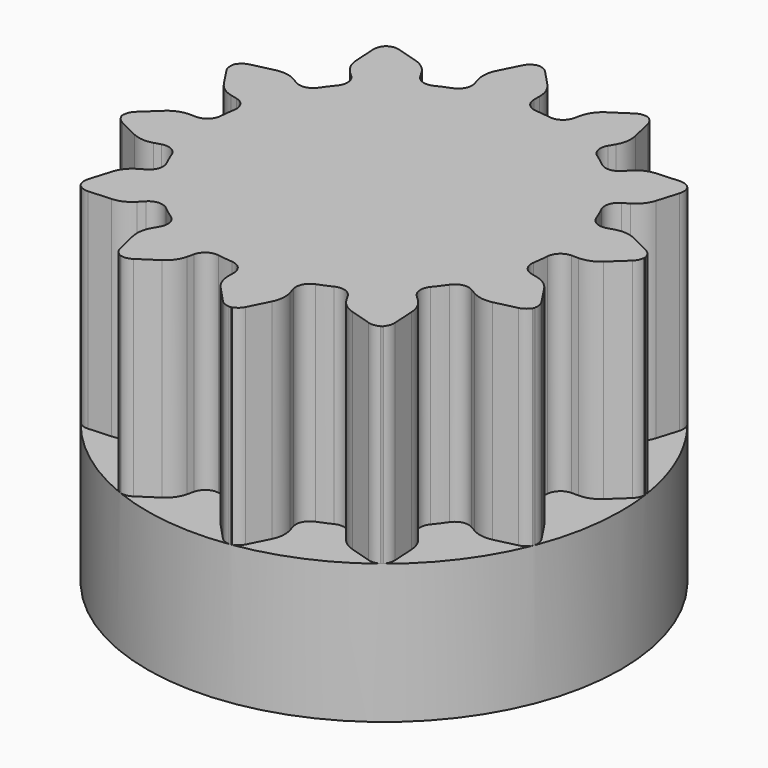
from build123d import *

# Parameters (mm, degrees)
F1_DEPTH = 15
F2_R     = 17
F2_R_2   = 3
F3_DEPTH = 10
F4_R     = 1.75
F5_DEPTH = 17.001
F6_W     = 5
F6_H     = 2
F7_DEPTH = 9


with BuildPart() as f1:
    # F0 (on Top) → F1 (new body)
    with BuildSketch(Plane.XY):
        with BuildLine():
            Line((0, 13.4629120178), (0, 13.9598396759))
            ThreePointArc((0, 13.9598396759), (-0.1399077376, 14.6947252284), (-0.5400567752, 15.3267946058))
            Line((-0.5400567752, 15.3267946058), (-1.6444481838, 16.5063131979))
            ThreePointArc((-1.6444481838, 16.5063131979), (-2.005522371, 16.7523058453), (-2.437014263, 16.8208747766))
            ThreePointArc((-2.437014263, 16.8208747766), (-2.8313041522, 16.6326662899), (-3.1077182557, 16.2943141144))
            Line((-3.1077182557, 16.2943141144), (-3.8319481854, 14.8498642187))
            ThreePointArc((-3.8319481854, 14.8498642187), (-4.0362605194, 14.1302202648), (-3.961852443, 13.3858450983))
            Line((-3.961852443, 13.3858450983), (-3.8208225958, 12.9093498942))
            ThreePointArc((-3.8208225958, 12.9093498942), (-3.8839051545, 12.1810886957), (-4.4256528088, 11.6903206635))
            ThreePointArc((-4.4256528088, 11.6903206635), (-4.9330299268, 11.4854349391), (-5.430954264, 11.2585405707))
            ThreePointArc((-5.430954264, 11.2585405707), (-6.1598714552, 11.203554111), (-6.7314560089, 11.6592238164))
            Line((-6.7314560089, 11.6592238164), (-6.9799198379, 12.0895757921))
            ThreePointArc((-6.9799198379, 12.0895757921), (-7.4685262691, 12.6560514806), (-8.1311001898, 13.0033650996))
            Line((-8.1311001898, 13.0033650996), (-9.6772905013, 13.4726624603))
            ThreePointArc((-9.6772905013, 13.4726624603), (-10.0698952013, 13.5105348139), (-10.4466051139, 13.3936485131))
            Line((-10.4466051139, 13.3936485131), (0, 0))
            Line((0, 0), (16.7978359788, 2.52073111))
            ThreePointArc((16.7978359788, 2.52073111), (16.605115483, 2.8648700007), (16.2943141144, 3.1077182557))
            Line((16.2943141144, 3.1077182557), (14.8498642187, 3.8319481854))
            ThreePointArc((14.8498642187, 3.8319481854), (14.1302202648, 4.0362605194), (13.3858450983, 3.961852443))
            Line((13.3858450983, 3.961852443), (12.9093498942, 3.8208225958))
            ThreePointArc((12.9093498942, 3.8208225958), (12.1810886957, 3.8839051545), (11.6903206635, 4.4256528088))
            ThreePointArc((11.6903206635, 4.4256528088), (11.4854349391, 4.9330299268), (11.2585405707, 5.430954264))
            ThreePointArc((11.2585405707, 5.430954264), (11.203554111, 6.1598714552), (11.6592238164, 6.7314560089))
            Line((11.6592238164, 6.7314560089), (12.0895757921, 6.9799198379))
            ThreePointArc((12.0895757921, 6.9799198379), (12.6560514806, 7.4685262691), (13.0033650996, 8.1311001898))
            Line((13.0033650996, 8.1311001898), (13.4726624603, 9.6772905013))
            ThreePointArc((13.4726624603, 9.6772905013), (13.5051612485, 10.1129862438), (13.3487977389, 10.5209536495))
            ThreePointArc((13.3487977389, 10.5209536495), (12.9886594636, 10.7683144666), (12.5574308325, 10.8385200144))
            Line((12.5574308325, 10.8385200144), (10.9443855635, 10.7434965839))
            ThreePointArc((10.9443855635, 10.7434965839), (10.2189994507, 10.5606142785), (9.6115556848, 10.1239874108))
            Line((9.6115556848, 10.1239874108), (9.2694136568, 9.7636043784))
            ThreePointArc((9.2694136568, 9.7636043784), (8.607179679, 9.4541048775), (7.9112882686, 9.6778880925))
            ThreePointArc((7.9112882686, 9.6778880925), (7.4801634674, 10.0148467038), (7.0347050118, 10.3326146448))
            ThreePointArc((7.0347050118, 10.3326146448), (6.6226267452, 10.9363822198), (6.7314560089, 11.6592238164))
            Line((6.7314560089, 11.6592238164), (6.9799198379, 12.0895757921))
            ThreePointArc((6.9799198379, 12.0895757921), (7.2261989593, 12.7959592182), (7.1956944161, 13.5434218749))
            Line((7.1956944161, 13.5434218749), (6.8290226966, 15.1171106441))
            ThreePointArc((6.8290226966, 15.1171106441), (6.6393196015, 15.5106836195), (6.2999211272, 15.7858120019))
            ThreePointArc((6.2999211272, 15.7858120019), (5.8643518233, 15.8199636158), (5.4557941, 15.6651490882))
            Line((5.4557941, 15.6651490882), (4.1063676348, 14.7763337488))
            ThreePointArc((4.1063676348, 14.7763337488), (3.5696059863, 14.2552599701), (3.2618576875, 13.5734081278))
            Line((3.2618576875, 13.5734081278), (3.1457455158, 13.0902362526))
            ThreePointArc((3.1457455158, 13.0902362526), (2.7269838182, 12.4910848335), (2.012432571, 12.3369410774))
            ThreePointArc((2.012432571, 12.3369410774), (1.4705882353, 12.4131933942), (0.9259259259, 12.4656592758))
            ThreePointArc((0.9259259259, 12.4656592758), (0.2671718912, 12.7824982004), (0, 13.4629120178))
        make_face()
        with BuildLine():
            Line((0, 0), (-10.4466051139, 13.3936485131))
            ThreePointArc((-10.4466051139, 13.3936485131), (-10.4842664055, 13.3720304589), (-10.5209536495, 13.3487977389))
            ThreePointArc((-10.5209536495, 13.3487977389), (-10.5521155946, 13.3185546187), (-10.5819351668, 13.2869871312))
            Line((-10.5819351668, 13.2869871312), (0, 0))
        make_face()
        with BuildLine():
            ThreePointArc((-10.5209536495, 13.3487977389), (-10.4842664055, 13.3720304589), (-10.4466051139, 13.3936485131))
            Line((-10.4466051139, 13.3936485131), (-10.4552663331, 13.4047531087))
            ThreePointArc((-10.4552663331, 13.4047531087), (-10.4887138155, 13.3774842671), (-10.5209536495, 13.3487977389))
        make_face()
        with BuildLine():
            ThreePointArc((-10.5819351668, 13.2869871312), (-10.5521155946, 13.3185546187), (-10.5209536495, 13.3487977389))
            ThreePointArc((-10.5209536495, 13.3487977389), (-10.5563792501, 13.3241532544), (-10.5907085873, 13.2980032945))
            Line((-10.5907085873, 13.2980032945), (-10.5819351668, 13.2869871312))
        make_face()
        with BuildLine():
            Line((-15.7438496685, 6.3759373047), (0, 0))
            Line((0, 0), (-10.5819351668, 13.2869871312))
            ThreePointArc((-10.5819351668, 13.2869871312), (-10.7836079407, 12.9480168406), (-10.8385200144, 12.5574308325))
            Line((-10.8385200144, 12.5574308325), (-10.7434965839, 10.9443855635))
            ThreePointArc((-10.7434965839, 10.9443855635), (-10.5606142785, 10.2189994507), (-10.1239874108, 9.6115556848))
            Line((-10.1239874108, 9.6115556848), (-9.7636043784, 9.2694136568))
            ThreePointArc((-9.7636043784, 9.2694136568), (-9.4541048775, 8.607179679), (-9.6778880925, 7.9112882686))
            ThreePointArc((-9.6778880925, 7.9112882686), (-10.0148467038, 7.4801634674), (-10.3326146448, 7.0347050118))
            ThreePointArc((-10.3326146448, 7.0347050118), (-10.9363822198, 6.6226267452), (-11.6592238164, 6.7314560089))
            Line((-11.6592238164, 6.7314560089), (-12.0895757921, 6.9799198379))
            ThreePointArc((-12.0895757921, 6.9799198379), (-12.7959592182, 7.2261989593), (-13.5434218749, 7.1956944161))
            Line((-13.5434218749, 7.1956944161), (-15.1171106441, 6.8290226966))
            ThreePointArc((-15.1171106441, 6.8290226966), (-15.4760524647, 6.6655187669), (-15.7438496685, 6.3759373047))
        make_face()
        with BuildLine():
            Line((-16.8225424186, -2.3502011554), (0, 0))
            Line((0, 0), (-15.8077182412, 6.215900812))
            ThreePointArc((-15.8077182412, 6.215900812), (-15.8128868414, 5.8215075423), (-15.6651490882, 5.4557941))
            Line((-15.6651490882, 5.4557941), (-14.7763337488, 4.1063676348))
            ThreePointArc((-14.7763337488, 4.1063676348), (-14.2552599701, 3.5696059863), (-13.5734081278, 3.2618576875))
            Line((-13.5734081278, 3.2618576875), (-13.0902362526, 3.1457455158))
            ThreePointArc((-13.0902362526, 3.1457455158), (-12.4910848335, 2.7269838182), (-12.3369410774, 2.012432571))
            ThreePointArc((-12.3369410774, 2.012432571), (-12.4131933942, 1.4705882353), (-12.4656592758, 0.9259259259))
            ThreePointArc((-12.4656592758, 0.9259259259), (-12.7824982004, 0.2671718912), (-13.4629120178, 0))
            Line((-13.4629120178, 0), (-13.9598396759, 0))
            ThreePointArc((-13.9598396759, 0), (-14.6947252284, -0.1399077376), (-15.3267946058, -0.5400567752))
            Line((-15.3267946058, -0.5400567752), (-16.5063131979, -1.6444481838))
            ThreePointArc((-16.5063131979, -1.6444481838), (-16.7354139682, -1.9655176508), (-16.8225424186, -2.3502011554))
        make_face()
        with BuildLine():
            Line((-13.3936485131, -10.4466051139), (0, 0))
            Line((0, 0), (-16.7978359788, -2.52073111))
            ThreePointArc((-16.7978359788, -2.52073111), (-16.605115483, -2.8648700007), (-16.2943141144, -3.1077182557))
            Line((-16.2943141144, -3.1077182557), (-14.8498642187, -3.8319481854))
            ThreePointArc((-14.8498642187, -3.8319481854), (-14.1302202648, -4.0362605194), (-13.3858450983, -3.961852443))
            Line((-13.3858450983, -3.961852443), (-12.9093498942, -3.8208225958))
            ThreePointArc((-12.9093498942, -3.8208225958), (-12.1810886957, -3.8839051545), (-11.6903206635, -4.4256528088))
            ThreePointArc((-11.6903206635, -4.4256528088), (-11.4854349391, -4.9330299268), (-11.2585405707, -5.430954264))
            ThreePointArc((-11.2585405707, -5.430954264), (-11.203554111, -6.1598714552), (-11.6592238164, -6.7314560089))
            Line((-11.6592238164, -6.7314560089), (-12.0895757921, -6.9799198379))
            ThreePointArc((-12.0895757921, -6.9799198379), (-12.6560514806, -7.4685262691), (-13.0033650996, -8.1311001898))
            Line((-13.0033650996, -8.1311001898), (-13.4726624603, -9.6772905013))
            ThreePointArc((-13.4726624603, -9.6772905013), (-13.5105348139, -10.0698952013), (-13.3936485131, -10.4466051139))
        make_face()
        with BuildLine():
            Line((-15.8077182412, 6.215900812), (0, 0))
            Line((0, 0), (-15.7438496685, 6.3759373047))
            ThreePointArc((-15.7438496685, 6.3759373047), (-15.7656562766, 6.3383848748), (-15.7858120019, 6.2999211272))
            ThreePointArc((-15.7858120019, 6.2999211272), (-15.797677478, 6.2581488442), (-15.8077182412, 6.215900812))
        make_face()
        with BuildLine():
            Line((-6.3759373047, -15.7438496685), (0, 0))
            Line((0, 0), (-13.2869871312, -10.5819351668))
            ThreePointArc((-13.2869871312, -10.5819351668), (-12.9480168406, -10.7836079407), (-12.5574308325, -10.8385200144))
            Line((-12.5574308325, -10.8385200144), (-10.9443855635, -10.7434965839))
            ThreePointArc((-10.9443855635, -10.7434965839), (-10.2189994507, -10.5606142785), (-9.6115556848, -10.1239874108))
            Line((-9.6115556848, -10.1239874108), (-9.2694136568, -9.7636043784))
            ThreePointArc((-9.2694136568, -9.7636043784), (-8.607179679, -9.4541048775), (-7.9112882686, -9.6778880925))
            ThreePointArc((-7.9112882686, -9.6778880925), (-7.4801634674, -10.0148467038), (-7.0347050118, -10.3326146448))
            ThreePointArc((-7.0347050118, -10.3326146448), (-6.6226267452, -10.9363822198), (-6.7314560089, -11.6592238164))
            Line((-6.7314560089, -11.6592238164), (-6.9799198379, -12.0895757921))
            ThreePointArc((-6.9799198379, -12.0895757921), (-7.2261989593, -12.7959592182), (-7.1956944161, -13.5434218749))
            Line((-7.1956944161, -13.5434218749), (-6.8290226966, -15.1171106441))
            ThreePointArc((-6.8290226966, -15.1171106441), (-6.6655187669, -15.4760524647), (-6.3759373047, -15.7438496685))
        make_face()
        with BuildLine():
            Line((-16.7978359788, -2.52073111), (0, 0))
            Line((0, 0), (-16.8225424186, -2.3502011554))
            ThreePointArc((-16.8225424186, -2.3502011554), (-16.8226512803, -2.3936258177), (-16.8208747766, -2.437014263))
            ThreePointArc((-16.8208747766, -2.437014263), (-16.8102644388, -2.4791228593), (-16.7978359788, -2.52073111))
        make_face()
        with BuildLine():
            Line((2.3502011554, -16.8225424186), (0, 0))
            Line((0, 0), (-6.215900812, -15.8077182412))
            ThreePointArc((-6.215900812, -15.8077182412), (-5.8215075423, -15.8128868414), (-5.4557941, -15.6651490882))
            Line((-5.4557941, -15.6651490882), (-4.1063676348, -14.7763337488))
            ThreePointArc((-4.1063676348, -14.7763337488), (-3.5696059863, -14.2552599701), (-3.2618576875, -13.5734081278))
            Line((-3.2618576875, -13.5734081278), (-3.1457455158, -13.0902362526))
            ThreePointArc((-3.1457455158, -13.0902362526), (-2.7269838182, -12.4910848335), (-2.012432571, -12.3369410774))
            ThreePointArc((-2.012432571, -12.3369410774), (-1.4705882353, -12.4131933942), (-0.9259259259, -12.4656592758))
            ThreePointArc((-0.9259259259, -12.4656592758), (-0.2671718912, -12.7824982004), (0, -13.4629120178))
            Line((0, -13.4629120178), (0, -13.9598396759))
            ThreePointArc((0, -13.9598396759), (0.1399077376, -14.6947252284), (0.5400567752, -15.3267946058))
            Line((0.5400567752, -15.3267946058), (1.6444481838, -16.5063131979))
            ThreePointArc((1.6444481838, -16.5063131979), (1.9655176508, -16.7354139682), (2.3502011554, -16.8225424186))
        make_face()
        with BuildLine():
            Line((-13.2869871312, -10.5819351668), (0, 0))
            Line((0, 0), (-13.3936485131, -10.4466051139))
            ThreePointArc((-13.3936485131, -10.4466051139), (-13.3720304589, -10.4842664055), (-13.3487977389, -10.5209536495))
            ThreePointArc((-13.3487977389, -10.5209536495), (-13.3185546187, -10.5521155946), (-13.2869871312, -10.5819351668))
        make_face()
        with BuildLine():
            Line((10.4466051139, -13.3936485131), (0, 0))
            Line((0, 0), (2.52073111, -16.7978359788))
            ThreePointArc((2.52073111, -16.7978359788), (2.8648700007, -16.605115483), (3.1077182557, -16.2943141144))
            Line((3.1077182557, -16.2943141144), (3.8319481854, -14.8498642187))
            ThreePointArc((3.8319481854, -14.8498642187), (4.0362605194, -14.1302202648), (3.961852443, -13.3858450983))
            Line((3.961852443, -13.3858450983), (3.8208225958, -12.9093498942))
            ThreePointArc((3.8208225958, -12.9093498942), (3.8839051545, -12.1810886957), (4.4256528088, -11.6903206635))
            ThreePointArc((4.4256528088, -11.6903206635), (4.9330299268, -11.4854349391), (5.430954264, -11.2585405707))
            ThreePointArc((5.430954264, -11.2585405707), (6.1598714552, -11.203554111), (6.7314560089, -11.6592238164))
            Line((6.7314560089, -11.6592238164), (6.9799198379, -12.0895757921))
            ThreePointArc((6.9799198379, -12.0895757921), (7.4685262691, -12.6560514806), (8.1311001898, -13.0033650996))
            Line((8.1311001898, -13.0033650996), (9.6772905013, -13.4726624603))
            ThreePointArc((9.6772905013, -13.4726624603), (10.0698952013, -13.5105348139), (10.4466051139, -13.3936485131))
        make_face()
        with BuildLine():
            Line((-6.215900812, -15.8077182412), (0, 0))
            Line((0, 0), (-6.3759373047, -15.7438496685))
            ThreePointArc((-6.3759373047, -15.7438496685), (-6.3383848748, -15.7656562766), (-6.2999211272, -15.7858120019))
            ThreePointArc((-6.2999211272, -15.7858120019), (-6.2581488442, -15.797677478), (-6.215900812, -15.8077182412))
        make_face()
        with BuildLine():
            Line((15.7438496685, -6.3759373047), (0, 0))
            Line((0, 0), (10.5819351668, -13.2869871312))
            ThreePointArc((10.5819351668, -13.2869871312), (10.7836079407, -12.9480168406), (10.8385200144, -12.5574308325))
            Line((10.8385200144, -12.5574308325), (10.7434965839, -10.9443855635))
            ThreePointArc((10.7434965839, -10.9443855635), (10.5606142785, -10.2189994507), (10.1239874108, -9.6115556848))
            Line((10.1239874108, -9.6115556848), (9.7636043784, -9.2694136568))
            ThreePointArc((9.7636043784, -9.2694136568), (9.4541048775, -8.607179679), (9.6778880925, -7.9112882686))
            ThreePointArc((9.6778880925, -7.9112882686), (10.0148467038, -7.4801634674), (10.3326146448, -7.0347050118))
            ThreePointArc((10.3326146448, -7.0347050118), (10.9363822198, -6.6226267452), (11.6592238164, -6.7314560089))
            Line((11.6592238164, -6.7314560089), (12.0895757921, -6.9799198379))
            ThreePointArc((12.0895757921, -6.9799198379), (12.7959592182, -7.2261989593), (13.5434218749, -7.1956944161))
            Line((13.5434218749, -7.1956944161), (15.1171106441, -6.8290226966))
            ThreePointArc((15.1171106441, -6.8290226966), (15.4760524647, -6.6655187669), (15.7438496685, -6.3759373047))
        make_face()
        with BuildLine():
            Line((2.52073111, -16.7978359788), (0, 0))
            Line((0, 0), (2.3502011554, -16.8225424186))
            ThreePointArc((2.3502011554, -16.8225424186), (2.3936258177, -16.8226512803), (2.437014263, -16.8208747766))
            ThreePointArc((2.437014263, -16.8208747766), (2.4791228593, -16.8102644388), (2.52073111, -16.7978359788))
        make_face()
        with BuildLine():
            Line((16.8225424186, 2.3502011554), (0, 0))
            Line((0, 0), (15.8077182412, -6.215900812))
            ThreePointArc((15.8077182412, -6.215900812), (15.8128868414, -5.8215075423), (15.6651490882, -5.4557941))
            Line((15.6651490882, -5.4557941), (14.7763337488, -4.1063676348))
            ThreePointArc((14.7763337488, -4.1063676348), (14.2552599701, -3.5696059863), (13.5734081278, -3.2618576875))
            Line((13.5734081278, -3.2618576875), (13.0902362526, -3.1457455158))
            ThreePointArc((13.0902362526, -3.1457455158), (12.4910848335, -2.7269838182), (12.3369410774, -2.012432571))
            ThreePointArc((12.3369410774, -2.012432571), (12.4131933942, -1.4705882353), (12.4656592758, -0.9259259259))
            ThreePointArc((12.4656592758, -0.9259259259), (12.7824982004, -0.2671718912), (13.4629120178, 0))
            Line((13.4629120178, 0), (13.9598396759, 0))
            ThreePointArc((13.9598396759, 0), (14.6947252284, 0.1399077376), (15.3267946058, 0.5400567752))
            Line((15.3267946058, 0.5400567752), (16.5063131979, 1.6444481838))
            ThreePointArc((16.5063131979, 1.6444481838), (16.7354139682, 1.9655176508), (16.8225424186, 2.3502011554))
        make_face()
        with BuildLine():
            Line((10.5819351668, -13.2869871312), (0, 0))
            Line((0, 0), (10.4466051139, -13.3936485131))
            ThreePointArc((10.4466051139, -13.3936485131), (10.4842664055, -13.3720304589), (10.5209536495, -13.3487977389))
            ThreePointArc((10.5209536495, -13.3487977389), (10.5521155946, -13.3185546187), (10.5819351668, -13.2869871312))
        make_face()
        with BuildLine():
            Line((15.8077182412, -6.215900812), (0, 0))
            Line((0, 0), (15.7438496685, -6.3759373047))
            ThreePointArc((15.7438496685, -6.3759373047), (15.7656562766, -6.3383848748), (15.7858120019, -6.2999211272))
            ThreePointArc((15.7858120019, -6.2999211272), (15.797677478, -6.2581488442), (15.8077182412, -6.215900812))
        make_face()
        with BuildLine():
            Line((16.7978359788, 2.52073111), (0, 0))
            Line((0, 0), (16.8225424186, 2.3502011554))
            ThreePointArc((16.8225424186, 2.3502011554), (16.8226512803, 2.3936258177), (16.8208747766, 2.437014263))
            ThreePointArc((16.8208747766, 2.437014263), (16.8102644388, 2.4791228593), (16.7978359788, 2.52073111))
        make_face()
        with BuildLine():
            Line((-15.8208243279, 6.221054379), (-15.8077182412, 6.215900812))
            ThreePointArc((-15.8077182412, 6.215900812), (-15.797677478, 6.2581488442), (-15.7858120019, 6.2999211272))
            ThreePointArc((-15.7858120019, 6.2999211272), (-15.8041692298, 6.2608655772), (-15.8208243279, 6.221054379))
        make_face()
        with BuildLine():
            Line((-16.8117629662, -2.5228210334), (-16.7978359788, -2.52073111))
            ThreePointArc((-16.7978359788, -2.52073111), (-16.8102644388, -2.4791228593), (-16.8208747766, -2.437014263))
            ThreePointArc((-16.8208747766, -2.437014263), (-16.8172448273, -2.4800159754), (-16.8117629662, -2.5228210334))
        make_face()
        with BuildLine():
            ThreePointArc((-15.7858120019, 6.2999211272), (-15.7656562766, 6.3383848748), (-15.7438496685, 6.3759373047))
            Line((-15.7438496685, 6.3759373047), (-15.7569028021, 6.381223557))
            ThreePointArc((-15.7569028021, 6.381223557), (-15.7722347508, 6.3408843063), (-15.7858120019, 6.2999211272))
        make_face()
        with BuildLine():
            Line((-13.2980032945, -10.5907085873), (-13.2869871312, -10.5819351668))
            ThreePointArc((-13.2869871312, -10.5819351668), (-13.3185546187, -10.5521155946), (-13.3487977389, -10.5209536495))
            ThreePointArc((-13.3487977389, -10.5209536495), (-13.3241532544, -10.5563792501), (-13.2980032945, -10.5907085873))
        make_face()
        with BuildLine():
            ThreePointArc((-16.8208747766, -2.437014263), (-16.8226512803, -2.3936258177), (-16.8225424186, -2.3502011554))
            Line((-16.8225424186, -2.3502011554), (-16.8364898901, -2.3521496934))
            ThreePointArc((-16.8364898901, -2.3521496934), (-16.8295981218, -2.3947504836), (-16.8208747766, -2.437014263))
        make_face()
        with BuildLine():
            Line((-6.221054379, -15.8208243279), (-6.215900812, -15.8077182412))
            ThreePointArc((-6.215900812, -15.8077182412), (-6.2581488442, -15.797677478), (-6.2999211272, -15.7858120019))
            ThreePointArc((-6.2999211272, -15.7858120019), (-6.2608655772, -15.8041692298), (-6.221054379, -15.8208243279))
        make_face()
        with BuildLine():
            ThreePointArc((-13.3487977389, -10.5209536495), (-13.3720304589, -10.4842664055), (-13.3936485131, -10.4466051139))
            Line((-13.3936485131, -10.4466051139), (-13.4047531087, -10.4552663331))
            ThreePointArc((-13.4047531087, -10.4552663331), (-13.3774842671, -10.4887138155), (-13.3487977389, -10.5209536495))
        make_face()
        with BuildLine():
            Line((2.5228210334, -16.8117629662), (2.52073111, -16.7978359788))
            ThreePointArc((2.52073111, -16.7978359788), (2.4791228593, -16.8102644388), (2.437014263, -16.8208747766))
            ThreePointArc((2.437014263, -16.8208747766), (2.4800159754, -16.8172448273), (2.5228210334, -16.8117629662))
        make_face()
        with BuildLine():
            ThreePointArc((-6.2999211272, -15.7858120019), (-6.3383848748, -15.7656562766), (-6.3759373047, -15.7438496685))
            Line((-6.3759373047, -15.7438496685), (-6.381223557, -15.7569028021))
            ThreePointArc((-6.381223557, -15.7569028021), (-6.3408843063, -15.7722347508), (-6.2999211272, -15.7858120019))
        make_face()
        with BuildLine():
            Line((10.5907085873, -13.2980032945), (10.5819351668, -13.2869871312))
            ThreePointArc((10.5819351668, -13.2869871312), (10.5521155946, -13.3185546187), (10.5209536495, -13.3487977389))
            ThreePointArc((10.5209536495, -13.3487977389), (10.5563792501, -13.3241532544), (10.5907085873, -13.2980032945))
        make_face()
        with BuildLine():
            ThreePointArc((2.437014263, -16.8208747766), (2.3936258177, -16.8226512803), (2.3502011554, -16.8225424186))
            Line((2.3502011554, -16.8225424186), (2.3521496934, -16.8364898901))
            ThreePointArc((2.3521496934, -16.8364898901), (2.3947504836, -16.8295981218), (2.437014263, -16.8208747766))
        make_face()
        with BuildLine():
            Line((15.8208243279, -6.221054379), (15.8077182412, -6.215900812))
            ThreePointArc((15.8077182412, -6.215900812), (15.797677478, -6.2581488442), (15.7858120019, -6.2999211272))
            ThreePointArc((15.7858120019, -6.2999211272), (15.8041692298, -6.2608655772), (15.8208243279, -6.221054379))
        make_face()
        with BuildLine():
            ThreePointArc((10.5209536495, -13.3487977389), (10.4842664055, -13.3720304589), (10.4466051139, -13.3936485131))
            Line((10.4466051139, -13.3936485131), (10.4552663331, -13.4047531087))
            ThreePointArc((10.4552663331, -13.4047531087), (10.4887138155, -13.3774842671), (10.5209536495, -13.3487977389))
        make_face()
        with BuildLine():
            Line((16.8117629662, 2.5228210334), (16.7978359788, 2.52073111))
            ThreePointArc((16.7978359788, 2.52073111), (16.8102644388, 2.4791228593), (16.8208747766, 2.437014263))
            ThreePointArc((16.8208747766, 2.437014263), (16.8172448273, 2.4800159754), (16.8117629662, 2.5228210334))
        make_face()
        with BuildLine():
            ThreePointArc((15.7858120019, -6.2999211272), (15.7656562766, -6.3383848748), (15.7438496685, -6.3759373047))
            Line((15.7438496685, -6.3759373047), (15.7569028021, -6.381223557))
            ThreePointArc((15.7569028021, -6.381223557), (15.7722347508, -6.3408843063), (15.7858120019, -6.2999211272))
        make_face()
        with BuildLine():
            ThreePointArc((16.8208747766, 2.437014263), (16.8226512803, 2.3936258177), (16.8225424186, 2.3502011554))
            Line((16.8225424186, 2.3502011554), (16.8364898901, 2.3521496934))
            ThreePointArc((16.8364898901, 2.3521496934), (16.8295981218, 2.3947504836), (16.8208747766, 2.437014263))
        make_face()
    extrude(amount=F1_DEPTH)

    # F2 (on Top) → F3 (join)
    with BuildSketch(Plane.XY):
        Circle(F2_R)
        Circle(F2_R_2, mode=Mode.SUBTRACT)
    extrude(amount=-F3_DEPTH)

    # F4 (on Front) → F5 (cut, through all)
    with BuildSketch(Plane.XZ):
        with Locations((0, -5)):
            Circle(F4_R)
    extrude(amount=-F5_DEPTH, mode=Mode.SUBTRACT)

    # F6 (on face) → F7 (cut)
    with BuildSketch(Plane(origin=(0, 0, -10), x_dir=(1, 0, 0), z_dir=(0, 0, -1))):
        with Locations((0, -8)):
            Rectangle(F6_W, F6_H)
    extrude(amount=-F7_DEPTH, mode=Mode.SUBTRACT)


solid = f1.part
